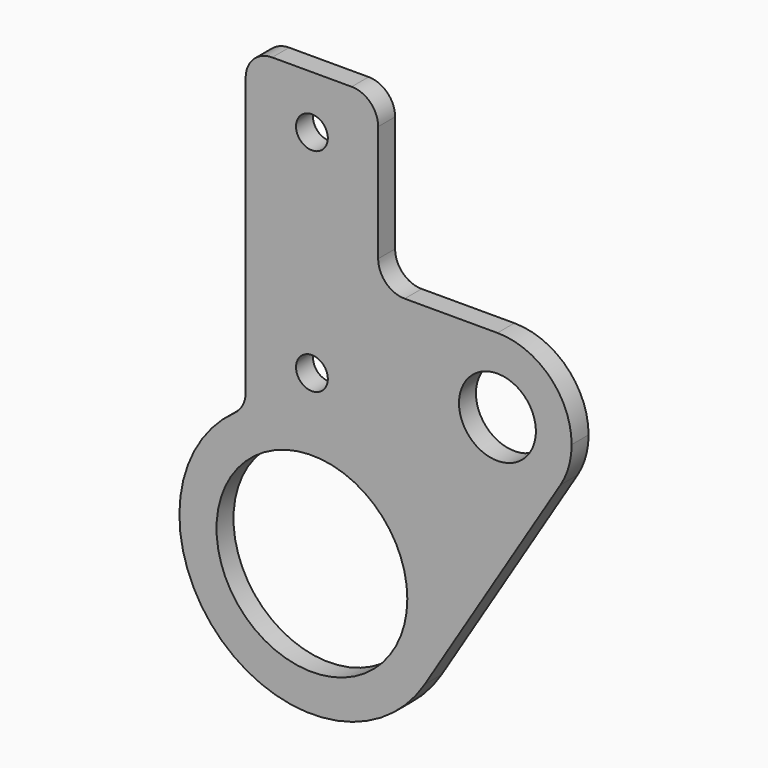
from build123d import *

# Parameters (mm, degrees)
F0_R     = 18
F1_DEPTH = 4
F2_R     = 5
F3_D     = 6
F4_D     = 14.5


with BuildPart() as f1:
    # F0 (on Front) → F1 (new body)
    with BuildSketch(Plane.XZ):
        with BuildLine():
            Line((-12.5, 81.6506350946), (-12.5, 21.6506350946))
            ThreePointArc((-12.5, 21.6506350946), (-17.9406988245, -17.4106670087), (21.2661562924, -13.1434621219))
            ThreePointArc((21.2661562924, -13.1434621219), (24.242434448, 6.1077305141), (12.5, 21.6506350946))
            Line((12.5, 21.6506350946), (12.5, 49.7071421427))
            Line((12.5, 49.7071421427), (12.5, 81.6506350946))
            Line((12.5, 81.6506350946), (-12.5, 81.6506350946))
        make_face()
        Circle(F0_R, mode=Mode.SUBTRACT)
        with BuildLine():
            ThreePointArc((12.5, 21.6506350946), (24.242434448, 6.1077305141), (21.2661562924, -13.1434621219))
            Line((21.2661562924, -13.1434621219), (46.9090475237, 28.3468033545))
            ThreePointArc((46.9090475237, 28.3468033545), (22.7720659342, 28.8896918508), (35, 49.7071421427))
            Line((35, 49.7071421427), (12.5, 49.7071421427))
            Line((12.5, 49.7071421427), (12.5, 21.6506350946))
        make_face()
        with BuildLine():
            ThreePointArc((35, 49.7071421427), (22.7720659342, 28.8896918508), (46.9090475237, 28.3468033545))
            ThreePointArc((46.9090475237, 28.3468033545), (48.4671204296, 31.8813523767), (49, 35.7071421427))
            ThreePointArc((49, 35.7071421427), (44.8994949366, 45.6066370793), (35, 49.7071421427))
        make_face()
    extrude(amount=F1_DEPTH)

    # F2
    f2_edges = [f1.edges().sort_by_distance(p)[0] for p in [
        (12.5, -2, 81.650635),
        (12.5, -2, 49.707142),
        (21.266156, -2, -13.143462),
        (-12.5, -2, 21.650635),
        (-12.5, -2, 81.650635),
    ]]
    fillet(f2_edges, radius=F2_R)

    # F3 (through all)
    with Locations(Plane(origin=(0, 0, 0), x_dir=(1, 0, 0), z_dir=(0, 1, 0))):
        with Locations((0, -31.6506350946), (0, -71.6506350946)):
            Hole(F3_D / 2)

    # F4 (through all)
    with Locations(Plane(origin=(0, 0, 0), x_dir=(1, 0, 0), z_dir=(0, 1, 0))):
        with Locations((35, -35.7071421427)):
            Hole(F4_D / 2)


solid = f1.part
